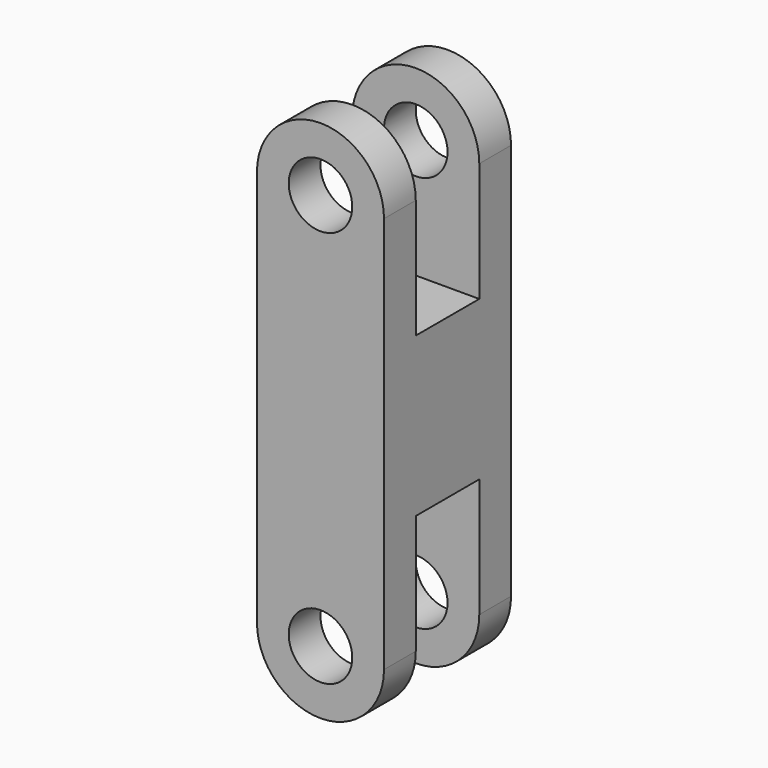
from build123d import *

# Parameters (mm, degrees)
F0_R     = 4
F1_DEPTH = 20
F2_W     = 10
F2_H     = 35
F3_DEPTH = 16.001


with BuildPart() as f1:
    # F0 (on Front) → F1 (new body)
    with BuildSketch(Plane.XZ):
        with BuildLine():
            Line((8, -25), (8, 25))
            ThreePointArc((8, 25), (0, 33), (-8, 25))
            Line((-8, 25), (-8, -25))
            ThreePointArc((-8, -25), (0, -33), (8, -25))
        make_face()
        with Locations((0, -25)):
            Circle(F0_R, mode=Mode.SUBTRACT)
        with Locations((0, 25)):
            Circle(F0_R, mode=Mode.SUBTRACT)
    extrude(amount=F1_DEPTH)

    # F2 (on face) → F3 (cut, through all)
    with BuildSketch(Plane(origin=(-8, 0, 0), x_dir=(0, -1, 0), z_dir=(-1, 0, 0))):
        with Locations((10, 27.5)):
            Rectangle(F2_W, F2_H)
        with Locations((10, -27.5)):
            Rectangle(F2_W, F2_H)
    extrude(amount=-F3_DEPTH, mode=Mode.SUBTRACT)


solid = f1.part
